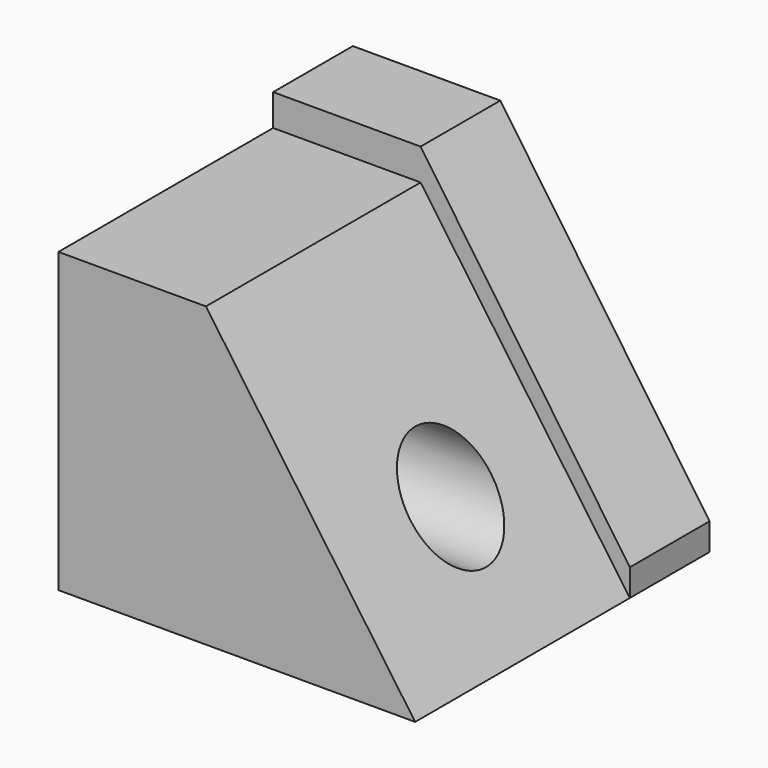
from build123d import *

# Parameters (mm, degrees)
F0_W     = 135.070444
F0_H     = 139.326424
F1_DEPTH = 124.714
F3_DEPTH = 101.6
F5_DEPTH = 101.6
F7_DEPTH = 50.8
F8_R     = 19.086434
F9_DEPTH = 138.176


with BuildPart() as f1:
    # F0 (on Top) → F1 (new body)
    with BuildSketch(Plane.XY):
        Rectangle(F0_W, F0_H)
    extrude(amount=F1_DEPTH)

    # F2 (on face) → F3 (cut, symmetric)
    with BuildSketch(Plane.XZ.offset(69.663212)):
        Polygon((67.535222, 124.714), (-20.09901, 124.714), (67.535222, 0), align=None)
    extrude(amount=F3_DEPTH, both=True, mode=Mode.SUBTRACT)

    # F4 (on face) → F5 (cut)
    with BuildSketch(Plane.XZ.offset(69.663212)):
        Polygon((-67.535222, 112.750193), (-11.692263, 112.750193), (-20.09901, 124.714), (-67.535222, 124.714), align=None)
    extrude(amount=-F5_DEPTH, mode=Mode.SUBTRACT)

    # F6 (on face) → F7 (cut)
    with BuildSketch(Plane.XZ.offset(-31.936788)):
        Polygon((67.535222, 124.714), (-11.692263, 124.714), (67.535222, 10.252971), align=None)
    extrude(amount=-F7_DEPTH, mode=Mode.SUBTRACT)

    # F8 (on Right) → F9 (cut, symmetric)
    with BuildSketch(Plane.YZ):
        with Locations((-15.093137, 43.024112)):
            Circle(F8_R)
    extrude(amount=F9_DEPTH, both=True, mode=Mode.SUBTRACT)


solid = f1.part
